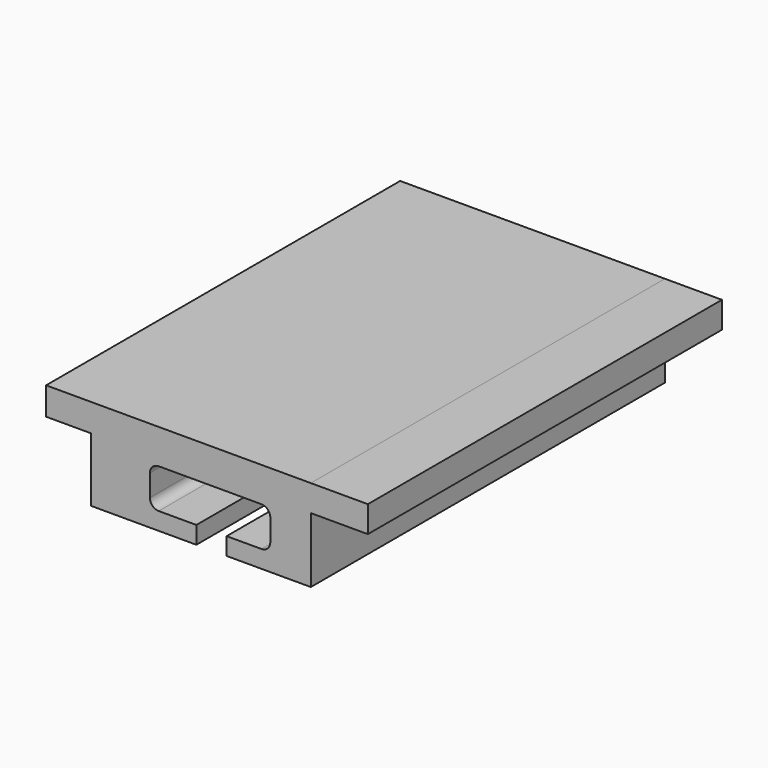
from build123d import *

# Parameters (mm, degrees)
F0_W     = 6.443182
F0_H     = 2.982489
F0_W_2   = 5.090909
F0_H_2   = 3.125394
F1_DEPTH = 50
F2_R     = 1


with BuildPart() as f1:
    # F0 (on Front) → F1 (new body)
    with BuildSketch(Plane.XZ):
        Polygon((-11.21591, 0), (-6.443182, 0), (-6.443182, 7.358421), (-6.443182, 10.34091), (-31.261364, 10.34091), (-31.261364, 7.215516), (-31.261364, 0), (-24.261364, 0), (-19.374487, 0), (-19.374487, 1.973586), (-24.624486, 1.973586), (-24.624486, 6.428131), (-11.022214, 6.428131), (-11.022214, 1.973586), (-15.954031, 1.973586), (-15.954031, 0), align=None)
        with Locations((-3.221591, 8.849666)):
            Rectangle(F0_W, F0_H)
        with Locations((-33.806818, 8.778213)):
            Rectangle(F0_W_2, F0_H_2)
    extrude(amount=F1_DEPTH)

    # F2
    f2_edges = [f1.edges().sort_by_distance(p)[0] for p in [
        (-24.624486, -25, 6.428131),
        (-11.022214, -25, 6.428131),
        (-11.022214, -25, 1.973586),
        (-24.624486, -25, 1.973586),
    ]]
    fillet(f2_edges, radius=F2_R)


solid = f1.part
